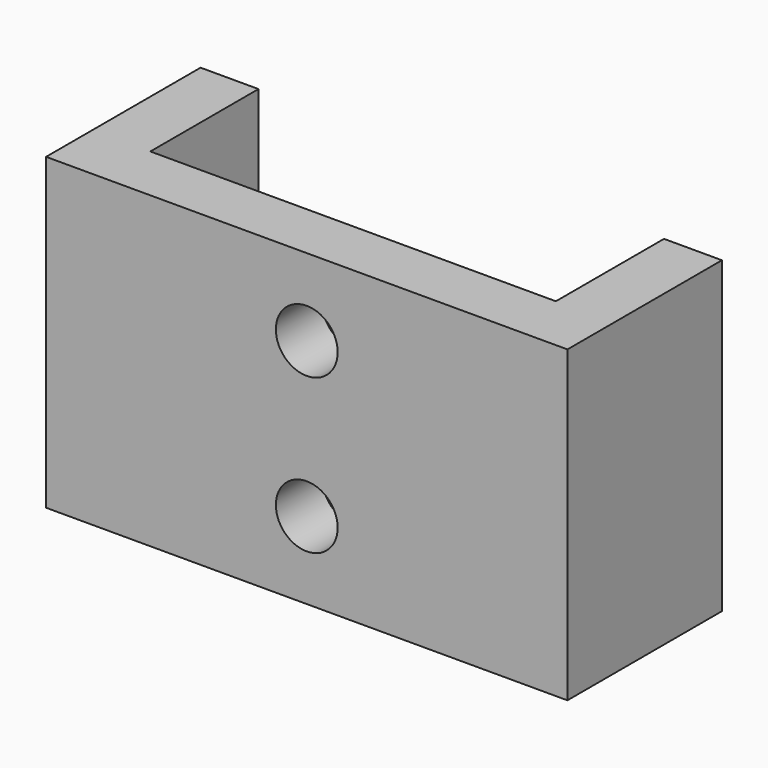
from build123d import *

# Parameters (mm, degrees)
CYLINDER976_R          = 1.6
CYLINDER976_DEPTH      = 20
CYLINDER976_ROLL_ANGLE = 90
CYLINDER975_R          = 1.6
CYLINDER975_DEPTH      = 20
CYLINDER975_ROLL_ANGLE = 90
BOX493_W               = 16
BOX493_H               = 10
BOX493_DEPTH           = 3
BOX492_W               = 16
BOX492_H               = 10
BOX492_DEPTH           = 3
BOX491_W               = 16
BOX491_H               = 3
BOX491_DEPTH           = 21
FUSION493_PITCH_ANGLE  = 90


with BuildPart() as cylinder1038:
    # Cylinder976 → Cylinder976 (new body)
    with BuildSketch(Plane.XY):
        Circle(CYLINDER976_R)
    extrude(amount=CYLINDER976_DEPTH)


with BuildPart() as cylinder1038_1:
    # Cylinder976 roll: moved
    add(cylinder1038.part.rotate(Axis((0, 0, 0), (1, 0, 0)), CYLINDER976_ROLL_ANGLE))


with BuildPart() as cylinder1038_2:
    # Cylinder976 placement: moved
    add(cylinder1038_1.part.moved(Location((19.5, 30, 0.5))))


with BuildPart() as fusion112:
    # Cylinder975 → Cylinder975 (new body)
    with BuildSketch(Plane.XY):
        Circle(CYLINDER975_R)
    extrude(amount=CYLINDER975_DEPTH)


with BuildPart() as fusion112_1:
    # Cylinder975 roll: moved
    add(fusion112.part.rotate(Axis((0, 0, 0), (1, 0, 0)), CYLINDER975_ROLL_ANGLE))


with BuildPart() as fusion112_2:
    # Cylinder975 placement: moved
    add(fusion112_1.part.moved(Location((19.5, 30, -7.5))))

    # Fusion112: union Cylinder1038
    add(cylinder1038_2.part)


with BuildPart() as fusion112_3:
    # Fusion112 placement: moved
    add(fusion112_2.part.moved(Location((0, -43, -1))))


with BuildPart() as cube695:
    # Box493 → Box493 (new body)
    with BuildSketch(Plane(origin=(128, 50.5, -0.5), x_dir=(1, 0, 0), z_dir=(0, 0, 1))):
        with Locations((8, 5)):
            Rectangle(BOX493_W, BOX493_H)
    extrude(amount=BOX493_DEPTH)


with BuildPart() as cube694:
    # Box492 → Box492 (new body)
    with BuildSketch(Plane(origin=(128, 50.5, -24.5), x_dir=(1, 0, 0), z_dir=(0, 0, 1))):
        with Locations((8, 5)):
            Rectangle(BOX492_W, BOX492_H)
    extrude(amount=BOX492_DEPTH)


with BuildPart() as diff_box_mount_holes:
    # Box491 → Box491 (new body)
    with BuildSketch(Plane(origin=(128, 50.5, -21.5), x_dir=(1, 0, 0), z_dir=(0, 0, 1))):
        with Locations((8, 1.5)):
            Rectangle(BOX491_W, BOX491_H)
    extrude(amount=BOX491_DEPTH)

    # Fusion493: union Cube695, Cube694
    add(cube695.part)
    add(cube694.part)


with BuildPart() as diff_box_mount_holes_1:
    # Fusion493 pitch: moved
    add(diff_box_mount_holes.part.rotate(Axis((0, 0, 0), (0, 1, 0)), FUSION493_PITCH_ANGLE))


with BuildPart() as diff_box_mount_holes_2:
    # Fusion493 placement: moved
    add(diff_box_mount_holes_1.part.moved(Location((30.5, -83.5, 131.5))))

    # Cut014057: cut Fusion112
    add(fusion112_3.part, mode=Mode.SUBTRACT)


solid = diff_box_mount_holes_2.part
